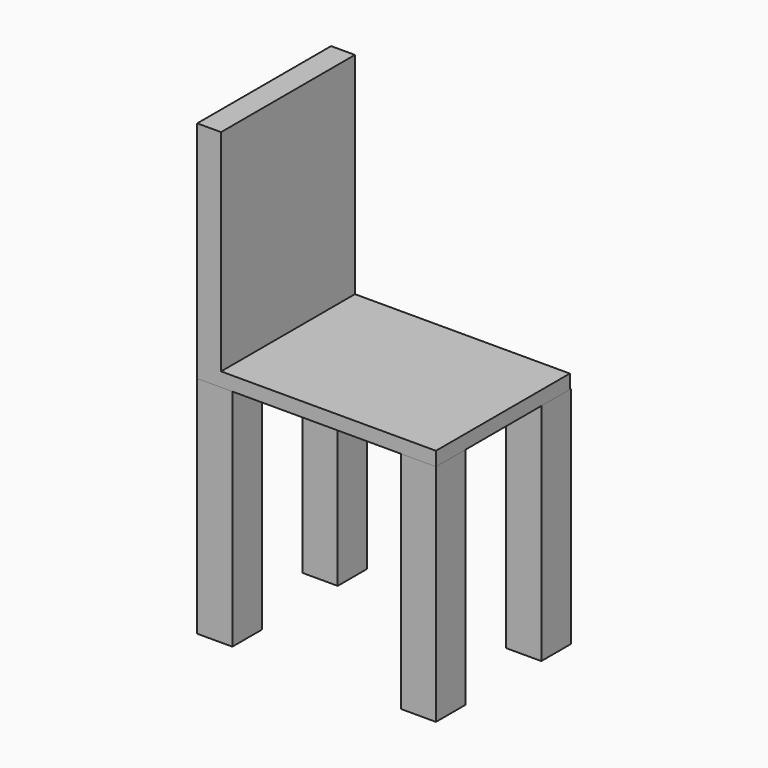
from build123d import *

# Parameters (mm, degrees)
F0_W     = 63.5
F0_H     = 66.597568
F1_DEPTH = 406.4
F2_W     = 431.8
F2_H     = 302.617073
F3_DEPTH = 25.4
F4_W     = 43.124486
F4_H     = 302.617073
F5_DEPTH = 381


with BuildPart() as f1:
    # F0 (on Top) → F1 (new body)
    with BuildSketch(Plane.XY):
        with Locations((400.05, 33.298784)):
            Rectangle(F0_W, F0_H)
        with Locations((31.75, 33.298784)):
            Rectangle(F0_W, F0_H)
        with Locations((31.75, 271.501216)):
            Rectangle(F0_W, F0_H)
        with Locations((400.05, 271.501216)):
            Rectangle(F0_W, F0_H)
    extrude(amount=F1_DEPTH)


with BuildPart() as f3:
    # F2 (on face) → F3 (new body)
    with BuildSketch(Plane.XY.offset(406.4)):
        with Locations((215.9, 151.308537)):
            Rectangle(F2_W, F2_H)
    extrude(amount=F3_DEPTH)

    # F4 (on face) → F5 (join)
    with BuildSketch(Plane.XY.offset(431.8)):
        with Locations((21.562243, 151.308537)):
            Rectangle(F4_W, F4_H)
    extrude(amount=F5_DEPTH)


solid = Compound([f1.part, f3.part])
